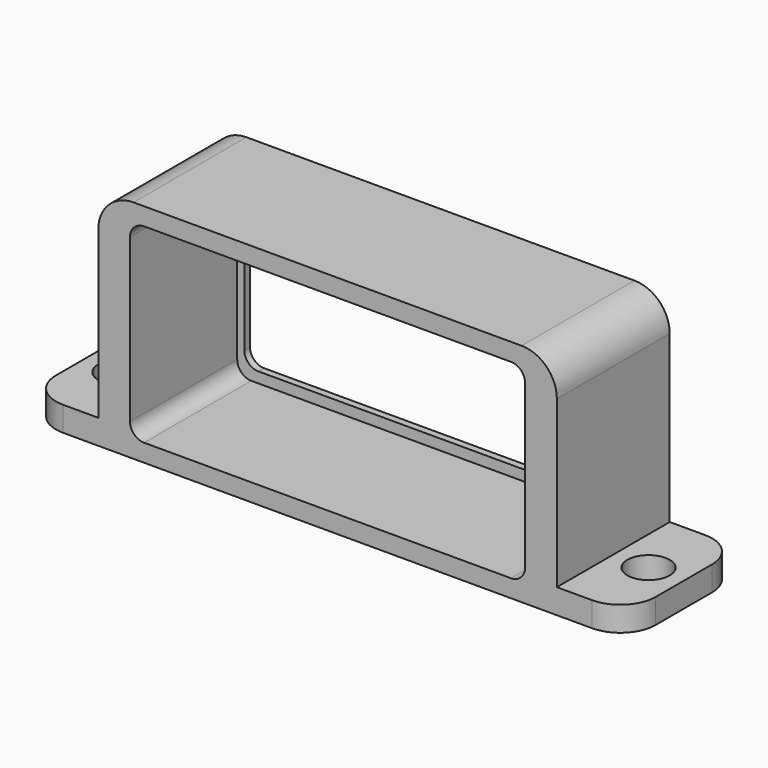
from build123d import *

# Parameters (mm, degrees)
F0_W      = 10
F0_H      = 3.5
F1_DEPTH  = 20
F2_R      = 3
F3_DEPTH  = 3.501
F6_R      = 5
F9_DEPTH  = 19
F10_DEPTH = 5
F11_R     = 5


with BuildPart() as f1:
    # F0 (on Front) → F1 (new body)
    with BuildSketch(Plane.XZ):
        with Locations((-70, 1.75)):
            Rectangle(F0_W, F0_H)
        Polygon((-65, 0), (0, 0), (0, 3.5), (0, 32), (-65, 32), (-65, 3.5), align=None)
        with Locations((5, 1.75)):
            Rectangle(F0_W, F0_H)
    extrude(amount=F1_DEPTH)

    # F2 (on face) → F3 (cut, through all)
    with BuildSketch(Plane.XY.offset(3.5)):
        with Locations((5, -10)):
            Circle(F2_R)
    f3 = extrude(amount=-F3_DEPTH, mode=Mode.SUBTRACT)

    # F5: F3 across plane
    add(f3.mirror(Plane.YZ.offset(-32.5)), mode=Mode.SUBTRACT)

    # F6
    f6_edges = [f1.edges().sort_by_distance(p)[0] for p in [
        (0, -10, 32),
        (-65, -10, 32),
    ]]
    fillet(f6_edges, radius=F6_R)

    # F8 (on face) → F9 (cut)
    with BuildSketch(Plane.XZ.offset(20)):
        with BuildLine():
            Line((-58.5, 2.5), (-6.5, 2.5))
            ThreePointArc((-6.5, 2.5), (-5.0857864376, 3.0857864376), (-4.5, 4.5))
            Line((-4.5, 4.5), (-4.5, 27.5))
            ThreePointArc((-4.5, 27.5), (-5.0857864376, 28.9142135624), (-6.5, 29.5))
            Line((-6.5, 29.5), (-58.5, 29.5))
            ThreePointArc((-58.5, 29.5), (-59.9142135624, 28.9142135624), (-60.5, 27.5))
            Line((-60.5, 27.5), (-60.5, 4.5))
            ThreePointArc((-60.5, 4.5), (-59.9142135624, 3.0857864376), (-58.5, 2.5))
        make_face()
    extrude(amount=-F9_DEPTH, mode=Mode.SUBTRACT)

    # F7 (on face) → F10 (cut)
    with BuildSketch(Plane(origin=(0, 0, 0), x_dir=(-1, 0, 0), z_dir=(0, 1, 0))):
        with BuildLine():
            Line((7.5, 4), (57.5, 4))
            ThreePointArc((57.5, 4), (58.9142135624, 4.5857864376), (59.5, 6))
            Line((59.5, 6), (59.5, 26))
            ThreePointArc((59.5, 26), (58.9142135624, 27.4142135624), (57.5, 28))
            Line((57.5, 28), (7.5, 28))
            ThreePointArc((7.5, 28), (6.0857864376, 27.4142135624), (5.5, 26))
            Line((5.5, 26), (5.5, 6))
            ThreePointArc((5.5, 6), (6.0857864376, 4.5857864376), (7.5, 4))
        make_face()
    extrude(amount=-F10_DEPTH, mode=Mode.SUBTRACT)

    # F11
    f11_edges = [f1.edges().sort_by_distance(p)[0] for p in [
        (-75, -20, 1.75),
        (-75, 0, 1.75),
        (10, -20, 1.75),
        (10, 0, 1.75),
    ]]
    fillet(f11_edges, radius=F11_R)


solid = f1.part
